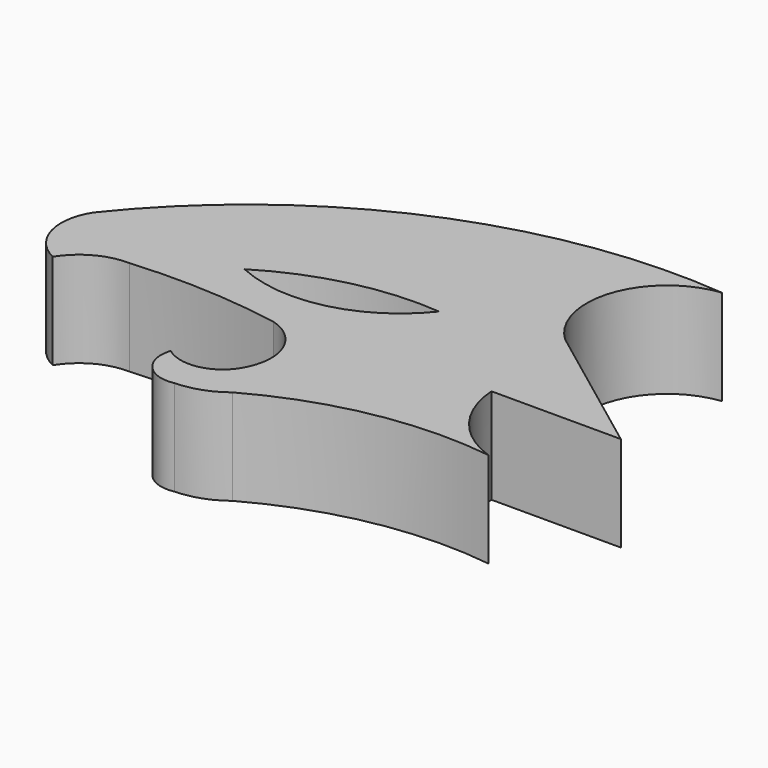
from build123d import *

# Parameters (mm, degrees)
F1_DEPTH = 15


with BuildPart() as f1:
    # F0 (on Top) → F1 (new body)
    with BuildSketch(Plane.XY):
        with BuildLine():
            ThreePointArc((49.614348, 33.35854), (8.903039, 26.89032), (-23.857608, 1.870557))
            ThreePointArc((-23.857608, 1.870557), (-24.920803, -5.06083), (-20.434998, -10.450826))
            ThreePointArc((-20.434998, -10.450826), (-16.819733, -7.048084), (-11.992571, -5.887351))
            ThreePointArc((-11.992571, -5.887351), (-0.205061, -5.704642), (11.509328, -7.02822))
            ThreePointArc((11.509328, -7.02822), (16.605141, -11.45746), (16.52915, -18.208735))
            ThreePointArc((16.52915, -18.208735), (12.179105, -22.03363), (6.489505, -20.946819))
            ThreePointArc((6.489505, -20.946819), (7.480503, -25.792154), (12.179105, -27.335685))
            ThreePointArc((12.179105, -27.335685), (15.926507, -26.654963), (19.267235, -24.825774))
            ThreePointArc((19.267235, -24.825774), (36.187876, -18.696505), (54.177821, -18.208735))
            ThreePointArc((54.177821, -18.208735), (47.007769, -13.030599), (43.910004, -4.746482))
            Line((43.910004, -4.746482), (64.217471, -4.746482))
            Line((64.217471, -4.746482), (42.312786, 11.682028))
            ThreePointArc((42.312786, 11.682028), (39.070272, 24.842236), (49.614348, 33.35854))
        make_face()
        with BuildLine():
            ThreePointArc((0, 1.649983), (12.33802, 6.780188), (25.662586, 7.781026))
            ThreePointArc((25.662586, 7.781026), (13.888067, 0.292187), (0, 1.649983))
        make_face(mode=Mode.SUBTRACT)
    extrude(amount=F1_DEPTH)


solid = f1.part
